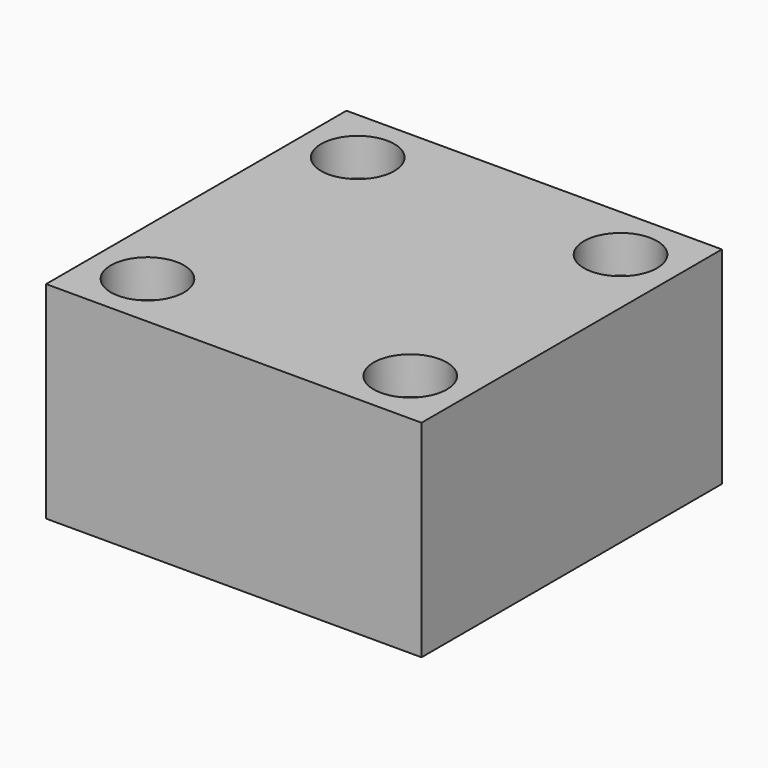
from build123d import *

# Parameters (mm, degrees)
F0_W           = 50
F0_H           = 50
F1_DEPTH       = 27.5
F3_D           = 5.5
F3_CBORE_D     = 9.75
F3_CBORE_DEPTH = 5
F5_D           = 4.2
F5_DEPTH       = 12
F5_CSINK_D     = 5.2
F5_CSINK_ANGLE = 90
F5_TIP         = 1.2618073


with BuildPart() as f1:
    # F0 (on Top) → F1 (new body)
    with BuildSketch(Plane.XY):
        Rectangle(F0_W, F0_H)
    extrude(amount=F1_DEPTH)

    # F3 (through all)
    with Locations(Plane.XY.offset(27.5)):
        with Locations((-17.5, 17.5), (17.5, 17.5), (-17.5, -17.5), (17.5, -17.5)):
            CounterBoreHole(F3_D / 2, F3_CBORE_D / 2, F3_CBORE_DEPTH)

    # F5
    with Locations(Plane(origin=(0, 25, 0), x_dir=(-1, 0, 0), z_dir=(0, 1, 0))):
        with Locations((-8.65, 19.35), (8.65, 19.35), (8.65, 5.65), (-8.65, 5.65)):
            CounterSinkHole(F5_D / 2, F5_CSINK_D / 2, depth=F5_DEPTH, counter_sink_angle=F5_CSINK_ANGLE)
            with Locations((0, 0, -(F5_DEPTH + F5_TIP / 2))):  # 118° drill point
                Cone(0, F5_D / 2, F5_TIP, mode=Mode.SUBTRACT)


solid = f1.part
